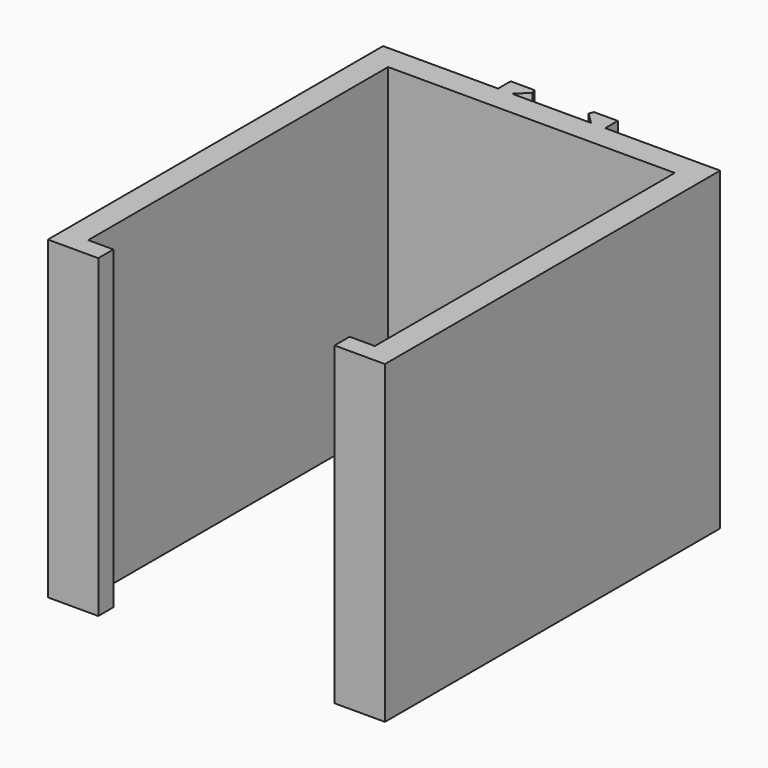
from build123d import *

# Parameters (mm, degrees)
F1_DEPTH = 50
F2_SIZE  = 1


with BuildPart() as f1:
    # F0 (on Top) → F1 (new body)
    with BuildSketch(Plane.XY):
        Polygon((-45.5, 0), (0, 0), (0, -59.5), (-4, -59.5), (-4, -62.5), (4, -62.5), (4, 4), (-14.25, 4), (-16.5, 4), (-29, 4), (-31.25, 4), (-49.5, 4), (-49.5, -62.5), (-41.5, -62.5), (-41.5, -59.5), (-45.5, -59.5), align=None)
        Polygon((-16.5, 4), (-14.25, 4), (-14.25, 6.5), (-19, 6.5), align=None)
        Polygon((-31.25, 6.5), (-31.25, 4), (-29, 4), (-26.5, 6.5), align=None)
    extrude(amount=F1_DEPTH)

    # F2
    f2_edges = [f1.edges().sort_by_distance(p)[0] for p in [
        (-19, 6.5, 25),
        (-26.5, 6.5, 25),
    ]]
    chamfer(f2_edges, length=F2_SIZE)


solid = f1.part
